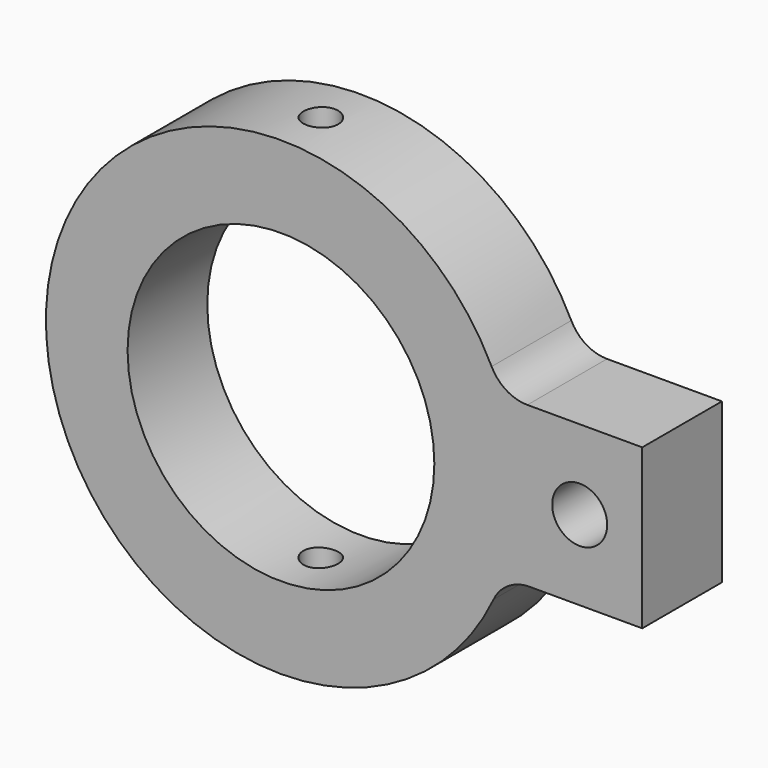
from build123d import *

# Parameters (mm, degrees)
F0_R     = 1.7526
F0_R_2   = 9.779
F1_DEPTH = 6.35
F2_R     = 1.11125
F3_DEPTH = 25.4
F4_R     = 2.54
F5_R     = 2.54


with BuildPart() as f1:
    # F0 (on Front) → F1 (new body)
    with BuildSketch(Plane.XZ):
        with BuildLine():
            ThreePointArc((14.1521138842, -4.9292868255), (14.7760579092, -2.4996617102), (14.986, 0))
            ThreePointArc((14.986, 0), (14.7484924114, 2.6574739115), (14.0434979861, 5.2307131745))
            Line((14.0434979861, 5.2307131745), (14.0434979861, -4.9292868255))
            Line((14.0434979861, -4.9292868255), (14.1521138842, -4.9292868255))
        make_face()
        with BuildLine():
            ThreePointArc((14.0434979861, 5.2307131745), (14.7484924114, 2.6574739115), (14.986, 0))
            ThreePointArc((14.986, 0), (14.7760579092, -2.4996617102), (14.1521138842, -4.9292868255))
            Line((14.1521138842, -4.9292868255), (23.0350979861, -4.9292868255))
            Line((23.0350979861, -4.9292868255), (23.0350979861, 5.2307131745))
            Line((23.0350979861, 5.2307131745), (14.0434979861, 5.2307131745))
        make_face()
        with Locations((19.0472979861, 0.1507131745)):
            Circle(F0_R, mode=Mode.SUBTRACT)
        with BuildLine():
            Line((14.0434979861, -4.9292868255), (14.0434979861, 5.2307131745))
            ThreePointArc((14.0434979861, 5.2307131745), (-14.9851437159, -0.1601992956), (14.1521138842, -4.9292868255))
            Line((14.1521138842, -4.9292868255), (14.0434979861, -4.9292868255))
        make_face()
        Circle(F0_R_2, mode=Mode.SUBTRACT)
    extrude(amount=F1_DEPTH)

    # F2 (on Top) → F3 (cut, symmetric)
    with BuildSketch(Plane.XY):
        with Locations((0, -3.175)):
            Circle(F2_R)
    extrude(amount=F3_DEPTH, both=True, mode=Mode.SUBTRACT)

    # F4
    f4_edges = [f1.edges().sort_by_distance(p)[0] for p in [
        (14.043498, -3.175, 5.230713),
    ]]
    fillet(f4_edges, radius=F4_R)

    # F5
    f5_edges = [f1.edges().sort_by_distance(p)[0] for p in [
        (14.152114, -3.175, -4.929287),
    ]]
    fillet(f5_edges, radius=F5_R)


solid = f1.part
